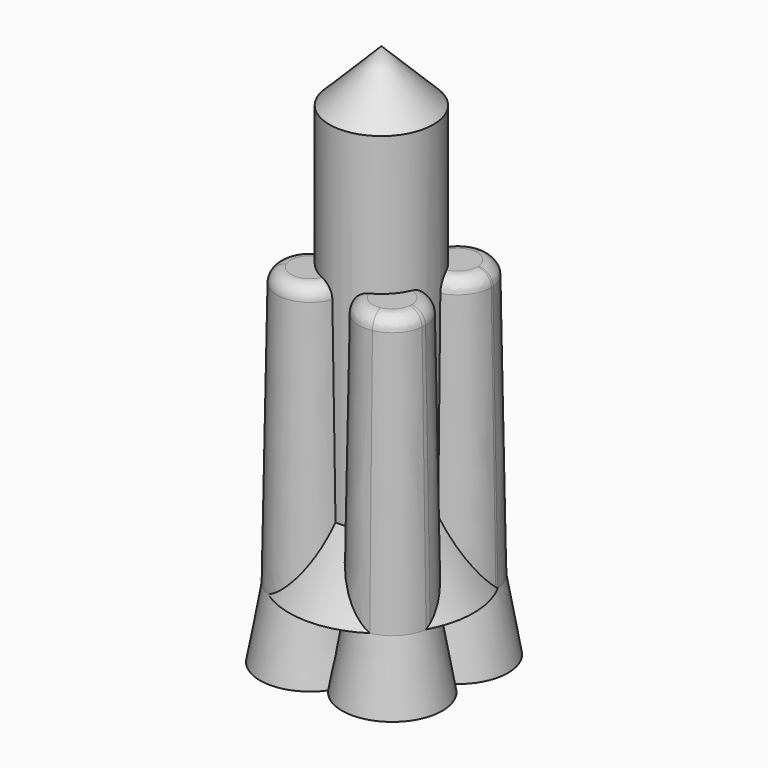
from build123d import *

# Parameters (mm, degrees)
F0_R       = 19.05
F1_DEPTH   = 127
F2_R       = 19.05
F3_DEPTH   = 1270
F3_TAPER   = 45
F1_FACE1_R = 19.05
F4_DEPTH   = 25.4
F4_TAPER   = -30
F6_DEPTH   = 101.6
F6_TAPER   = 1
F7_R       = 5.08
F5_R       = 13.8603228488
F8_DEPTH   = 25.4
F8_TAPER   = -10
F9_R       = 11.4017830265
F10_DEPTH  = 114.3


with BuildPart() as f1:
    # F0 (on Top) → F1 (new body)
    with BuildSketch(Plane.XY):
        Circle(F0_R)
    extrude(amount=F1_DEPTH)

    # F2 (on face) → F3 (join)
    with BuildSketch(Plane.XY.offset(127)):
        Circle(F2_R)
    extrude(amount=F3_DEPTH, taper=F3_TAPER)

    # F1_face1 (on face) → F4 (join)
    with BuildSketch(Plane(origin=(0, 0, 0), x_dir=(1, 0, 0), z_dir=(0, 0, -1))):
        Circle(F1_FACE1_R)
    extrude(amount=F4_DEPTH, taper=F4_TAPER)

    # F5 (on face) → F6 (join)
    with BuildSketch(Plane(origin=(0, 0, -25.4), x_dir=(1, 0, 0), z_dir=(0, 0, -1))):
        with BuildLine():
            ThreePointArc((-17.5368501734, -28.7947854452), (-22.9977411495, -24.6532895342), (-27.5082507704, -19.4929967525))
            ThreePointArc((-27.5082507704, -19.4929967525), (-23.7455992355, -25.4549840052), (-17.5368501734, -28.7947854452))
        make_face()
        with BuildLine():
            ThreePointArc((-0.4307610855, -15.319862403), (-16.4022861958, -1.6212721659), (-27.5082507704, -19.4929967525))
            ThreePointArc((-27.5082507704, -19.4929967525), (-22.9977411495, -24.6532895342), (-17.5368501734, -28.7947854452))
            ThreePointArc((-17.5368501734, -28.7947854452), (-5.714336838, -26.2078355256), (-0.4307610855, -15.319862403))
        make_face()
        with BuildLine():
            ThreePointArc((29.5313978804, -16.2658329657), (24.1327724154, -23.5433659103), (16.9909266161, -29.1202540436))
            ThreePointArc((16.9909266161, -29.1202540436), (25.6245278351, -24.9986874578), (29.5313978804, -16.2658329657))
        make_face()
        with BuildLine():
            ThreePointArc((29.5637169265, -15.319862403), (5.4575616046, -5.9854386711), (16.9909266161, -29.1202540436))
            ThreePointArc((16.9909266161, -29.1202540436), (24.1327724154, -23.5433659103), (29.5313978804, -16.2658329657))
            ThreePointArc((29.5313978804, -16.2658329657), (29.5556348086, -15.7931236486), (29.5637169265, -15.319862403))
        make_face()
        with BuildLine():
            ThreePointArc((-27.0149915364, 20.1710439772), (-23.5221674839, 24.1534349462), (-19.4486926728, 27.5395921567))
            ThreePointArc((-19.4486926728, 27.5395921567), (-23.9611941833, 24.6042438621), (-27.0149915364, 20.1710439772))
        make_face()
        with BuildLine():
            ThreePointArc((-27.0149915364, 20.1710439772), (-17.0974233836, 1.1013695578), (-0.4307610855, 14.674615609))
            ThreePointArc((-0.4307610855, 14.674615609), (-6.5250544716, 26.1549176894), (-19.4486926728, 27.5395921567))
            ThreePointArc((-19.4486926728, 27.5395921567), (-23.5221674839, 24.1534349462), (-27.0149915364, 20.1710439772))
        make_face()
        with BuildLine():
            ThreePointArc((29.4555587983, 16.4027692393), (25.8302272203, 24.1380082341), (18.3579798663, 28.2783549392))
            ThreePointArc((18.3579798663, 28.2783549392), (24.6331281781, 23.0193348949), (29.4555587983, 16.4027692393))
        make_face()
        with BuildLine():
            ThreePointArc((29.4555587983, 16.4027692393), (24.6331281781, 23.0193348949), (18.3579798663, 28.2783549392))
            ThreePointArc((18.3579798663, 28.2783549392), (5.0052174683, 5.8622625347), (29.5637169265, 14.674615609))
            ThreePointArc((29.5637169265, 14.674615609), (29.5366509677, 15.5403830649), (29.4555587983, 16.4027692393))
        make_face()
    extrude(amount=-F6_DEPTH, taper=F6_TAPER)

    # F7
    f7_edges = [f1.edges().sort_by_distance(p)[0] for p in [
        (24.355114, 23.760277, 76.2),
        (-22.53589, 24.158191, 76.2),
        (-22.723899, -23.333743, 76.2),
        (24.534494, -22.927163, 76.2),
    ]]
    fillet(f7_edges, radius=F7_R)

    # F5 (on face) → F8 (join)
    with BuildSketch(Plane(origin=(0, 0, -25.4), x_dir=(1, 0, 0), z_dir=(0, 0, -1))):
        with Locations((-14.2910839343, 14.674615609)):
            Circle(F5_R)
        with Locations((-14.2910839343, -15.319862403)):
            Circle(F5_R)
        with Locations((15.7033940777, -15.319862403)):
            Circle(F5_R)
        with Locations((15.7033940777, 14.674615609)):
            Circle(F5_R)
    extrude(amount=F8_DEPTH, taper=F8_TAPER)

    # F9 (on face) → F10 (cut)
    with BuildSketch(Plane(origin=(0, 0, -50.8), x_dir=(1, 0, 0), z_dir=(0, 0, -1))):
        with Locations((-14.2910839343, -15.319862403)):
            Circle(F9_R)
        with Locations((-14.2910839343, 14.674615609)):
            Circle(F9_R)
        with Locations((15.7033940777, 14.674615609)):
            Circle(F9_R)
        with Locations((15.7033940777, -15.319862403)):
            Circle(F9_R)
    extrude(amount=-F10_DEPTH, mode=Mode.SUBTRACT)


solid = f1.part
